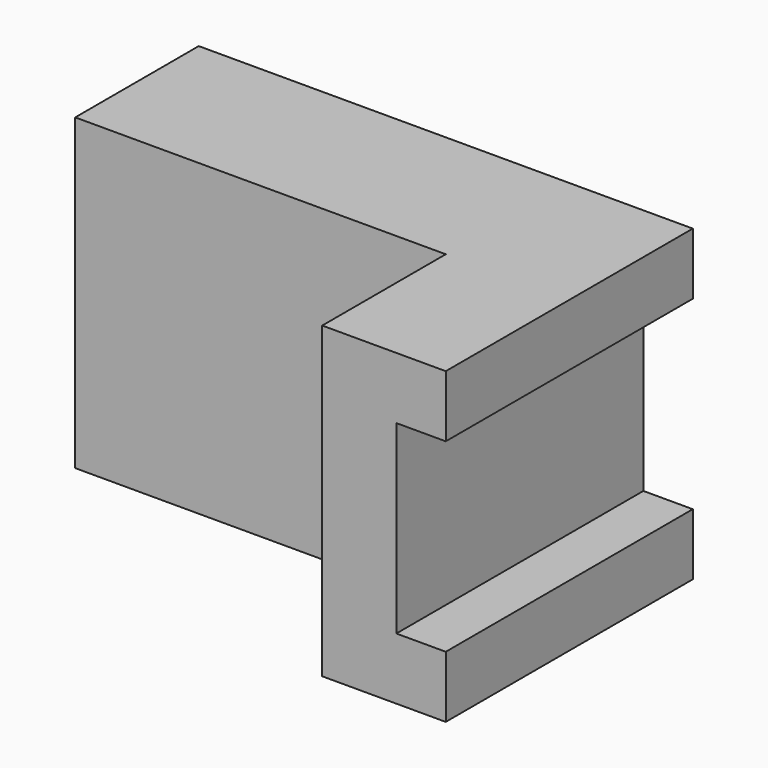
from build123d import *

# Parameters (mm, degrees)
F0_W     = 60
F0_H     = 50
F1_DEPTH = 25
F2_DEPTH = 50


with BuildPart() as f1:
    # F0 (on Front) → F1 (new body)
    with BuildSketch(Plane.XZ):
        with Locations((95.423989, -136.870056)):
            Rectangle(F0_W, F0_H)
    extrude(amount=F1_DEPTH)

    # F0 (on Front) → F2 (join)
    with BuildSketch(Plane.XZ):
        Polygon((145.423989, -111.870056), (125.423989, -111.870056), (125.423989, -161.870056), (145.423989, -161.870056), (145.423989, -151.870056), (137.423989, -151.870056), (137.423989, -121.870056), (145.423989, -121.870056), align=None)
    extrude(amount=F2_DEPTH)


solid = f1.part
